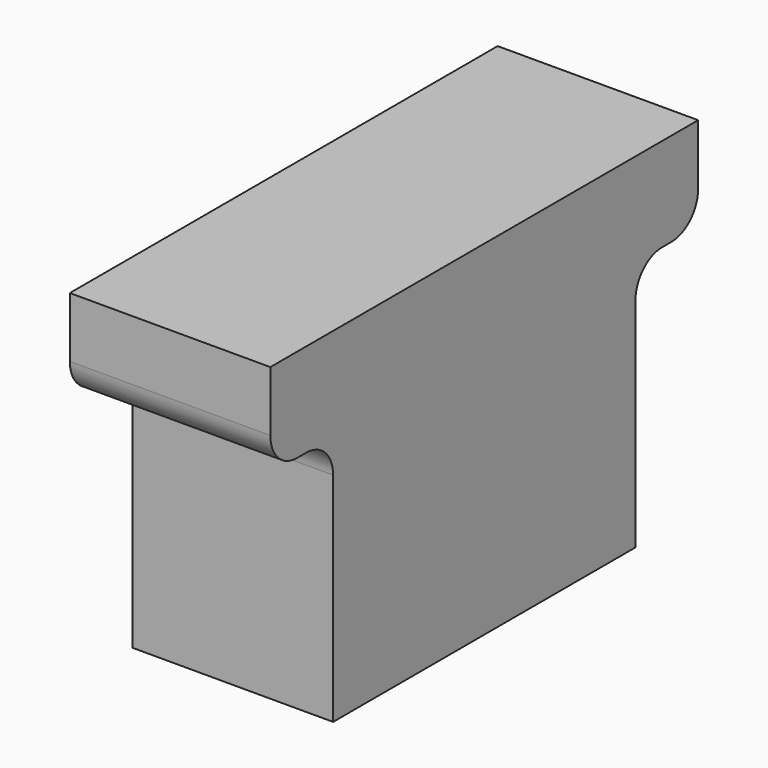
from build123d import *

# Parameters (mm, degrees)
F1_DEPTH = 600
F2_R     = 100


with BuildPart() as f1:
    # F0 (on Right) → F1 (new body)
    with BuildSketch(Plane.YZ):
        Polygon((234.739542, 750), (234.739542, 0), (1365.260458, 0), (1365.260458, 750), (1600, 750), (1600, 1030), (0, 1030), (0, 750), align=None)
    extrude(amount=F1_DEPTH)

    # F2
    f2_edges = [f1.edges().sort_by_distance(p)[0] for p in [
        (300, 234.739542, 750),
        (300, 0, 750),
        (300, 1365.260458, 750),
        (300, 1600, 750),
    ]]
    fillet(f2_edges, radius=F2_R)


solid = f1.part
